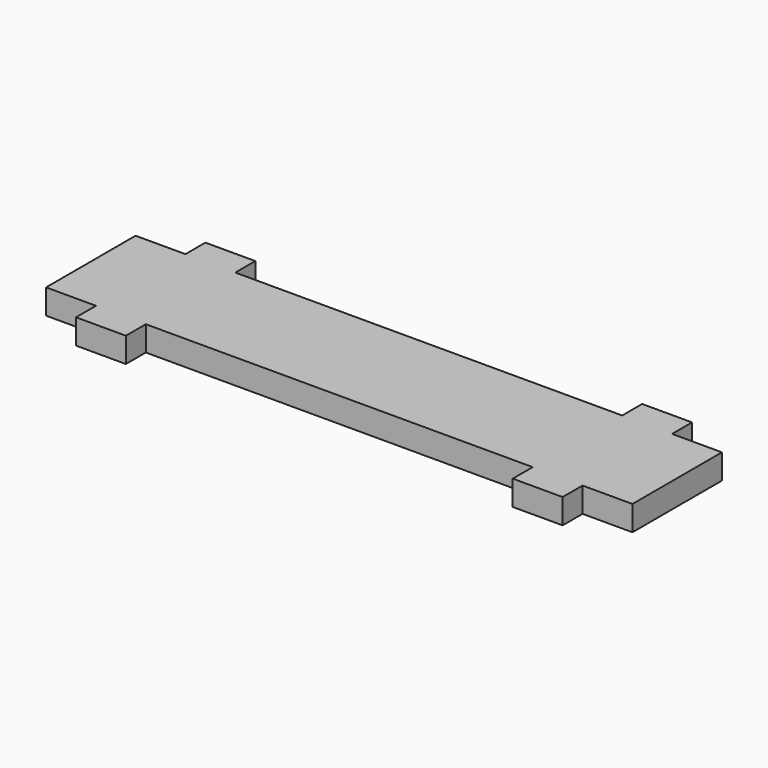
from build123d import *

# Parameters (mm, degrees)
F0_W     = 3
F0_H     = 1.5
F1_DEPTH = 1.5


with BuildPart() as f1:
    # F0 (on Top) → F1 (new body)
    with BuildSketch(Plane.XY):
        Polygon((-14.6365, 3.3645), (-17.6365, 3.3645), (-17.6365, -3.3645), (-14.6365, -3.3645), (-11.6365, -3.3645), (11.6365, -3.3645), (14.6365, -3.3645), (17.6365, -3.3645), (17.6365, 3.3645), (14.6365, 3.3645), (11.6365, 3.3645), (-11.6365, 3.3645), align=None)
        with Locations((-13.1365, 4.1145)):
            Rectangle(F0_W, F0_H)
        with Locations((-13.1365, -4.1145)):
            Rectangle(F0_W, F0_H)
        with Locations((13.1365, 4.1145)):
            Rectangle(F0_W, F0_H)
        with Locations((13.1365, -4.1145)):
            Rectangle(F0_W, F0_H)
    extrude(amount=F1_DEPTH)


solid = f1.part
